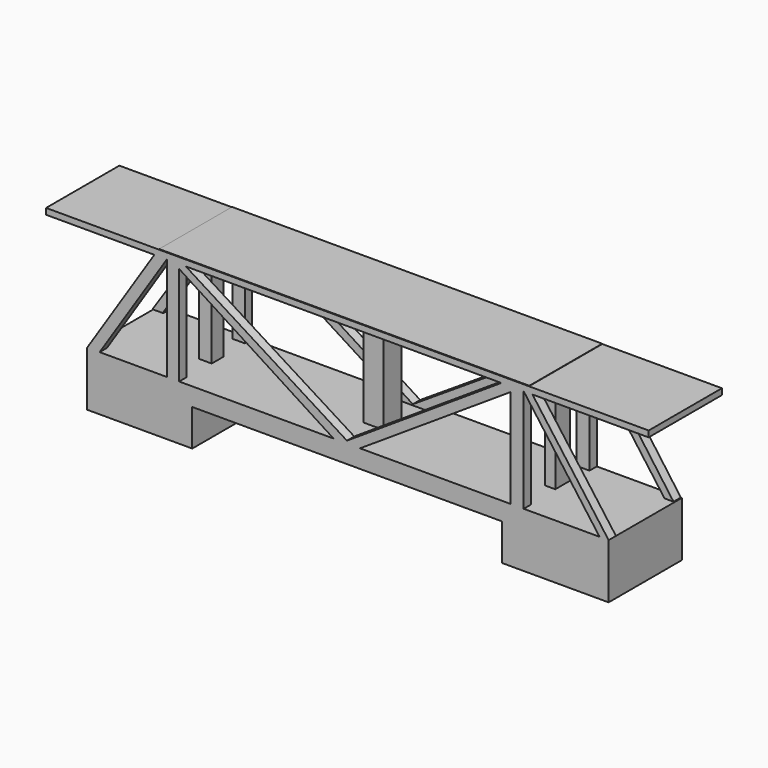
from build123d import *

# Parameters (mm, degrees)
F0_W      = 144.6334645152
F0_H      = 5.0355943386
F1_DEPTH  = 25.4
F3_DEPTH  = 2.54
F5_DEPTH  = 2.54
F6_W      = 102.6701740921
F6_H      = 25.2759195864
F7_DEPTH  = 0.254
F8_W      = 3.4340582788
F8_H      = 30.7748552877
F9_DEPTH  = 2.54
F10_W     = 3.6297179759
F10_H     = 32.1495756507
F11_DEPTH = 2.54
F12_W     = 3.6330670118
F12_H     = 30.970800959
F13_DEPTH = 2.54
F14_W     = 3.4567825496
F14_H     = 30.4196920479
F15_DEPTH = 2.54
F17_DEPTH = 2.54
F19_DEPTH = 2.54
F20_W     = 5.5748282466
F20_H     = 6.0991924256
F21_DEPTH = 33.02
F22_W     = 3.5782083869
F22_H     = 4.1668945923
F23_DEPTH = 33.02
F24_W     = 2.8318321891
F24_H     = 5.08
F25_DEPTH = 33.02
F26_W     = 167.146153748
F26_H     = 1.6835723072
F27_DEPTH = 25.4
F28_W     = 29.1326753795
F28_H     = 25.4
F29_DEPTH = 10.16
F30_W     = 29.6150818467
F30_H     = 25.4
F31_DEPTH = 10.16


with BuildPart() as f1:
    # F0 (on Front) → F1 (new body)
    with BuildSketch(Plane.XZ):
        with Locations((0.2797581255, -0.1398775494)):
            Rectangle(F0_W, F0_H)
    extrude(amount=F1_DEPTH)

    # F2 (on Front) → F3 (join)
    with BuildSketch(Plane.XZ):
        Polygon((-72.0369741321, 2.6576747186), (-72.0369741321, 0), (-69.2392249852, 0), (-69.2392249852, 2.6093864363), (-50.4433400929, 30.9355836362), (48.9940978587, 30.9355836362), (69.989785552, 2.1328825969), (69.989785552, 0), (72.3275691271, 0), (72.3275691271, 2.345408313), (50.4958182573, 32.5914844871), (-52.1743558347, 32.5914844871), align=None)
    extrude(amount=F3_DEPTH)

    # F4 (on face) → F5 (join)
    with BuildSketch(Plane.XZ.offset(25.4)):
        Polygon((-72.0369741321, 2.3779196199), (-72.0369741321, -0.1398775494), (-68.5875401776, 0), (-68.5875401776, 2.3779196199), (-49.9622374773, 31.0818161815), (49.0318536758, 31.0818161815), (70.0765177608, 2.3779196199), (70.0765177608, 0), (72.5964903831, 0), (72.5964903831, 2.3779196199), (50.2103567123, 32.7653884888), (-52.319239825, 32.7653884888), align=None)
    extrude(amount=-F5_DEPTH)

    # F6 (on face) → F7 (join)
    with BuildSketch(Plane.XY.offset(32.5914844871)):
        with Locations((-0.8392687887, -12.6379597932)):
            Rectangle(F6_W, F6_H)
    extrude(amount=F7_DEPTH)

    # F8 (on face) → F9 (join)
    with BuildSketch(Plane.XZ.offset(25.4)):
        with Locations((-48.2452083379, 16.5978105506)):
            Rectangle(F8_W, F8_H)
    extrude(amount=-F9_DEPTH)

    # F10 (on face) → F11 (join)
    with BuildSketch(Plane.XZ.offset(25.4)):
        with Locations((47.2169946879, 16.0747878253)):
            Rectangle(F10_W, F10_H)
    extrude(amount=-F11_DEPTH)

    # F12 (on face) → F13 (join)
    with BuildSketch(Plane(origin=(0, 0, 0), x_dir=(-1, 0, 0), z_dir=(0, 1, 0))):
        with Locations((-47.1775643528, 16.3971947914)):
            Rectangle(F12_W, F12_H)
    extrude(amount=-F13_DEPTH)

    # F14 (on face) → F15 (join)
    with BuildSketch(Plane(origin=(0, 0, 0), x_dir=(-1, 0, 0), z_dir=(0, 1, 0))):
        with Locations((48.3132656664, 16.6731329518)):
            Rectangle(F14_W, F14_H)
    extrude(amount=-F15_DEPTH)

    # F16 (on face) → F17 (join)
    with BuildSketch(Plane(origin=(0, 0, 0), x_dir=(-1, 0, 0), z_dir=(0, 1, 0))):
        Polygon((-45.3610308468, 31.9995991886), (-47.1585355699, 30.9355836362), (0, 0), (48.751424998, 30.9355836362), (47.5394830392, 32.8454844871), (0, 2.678947742), align=None)
    extrude(amount=-F17_DEPTH)

    # F18 (on face) → F19 (join)
    with BuildSketch(Plane.XZ.offset(25.4)):
        Polygon((-46.5281791985, 32.2389304638), (-48.4291017056, 31.0818161815), (0, 0), (47.5102737546, 31.0818161815), (45.4021357, 32.7653884888), (0, 3.0627426281), align=None)
    extrude(amount=-F19_DEPTH)

    # F20 (on face) → F21 (join)
    with BuildSketch(Plane(origin=(0, 0, 32.5914844871), x_dir=(1, 0, 0), z_dir=(0, 0, -1))):
        with Locations((-0.5173498066, 12.4324662611)):
            Rectangle(F20_W, F20_H)
    extrude(amount=F21_DEPTH)

    # F22 (on face) → F23 (join)
    with BuildSketch(Plane(origin=(0, 0, 32.5914844871), x_dir=(1, 0, 0), z_dir=(0, 0, -1))):
        with Locations((-48.0833910406, 12.3338256963)):
            Rectangle(F22_W, F22_H)
    extrude(amount=F23_DEPTH)

    # F24 (on face) → F25 (join)
    with BuildSketch(Plane(origin=(0, 0, 32.5914844871), x_dir=(1, 0, 0), z_dir=(0, 0, -1))):
        with Locations((47.2405347973, 11.4395930432)):
            Rectangle(F24_W, F24_H)
    extrude(amount=F25_DEPTH)

    # F26 (on face) → F27 (join)
    with BuildSketch(Plane.XZ.offset(25.4)):
        with Locations((0.1240931451, 31.9236023352)):
            Rectangle(F26_W, F26_H)
    extrude(amount=-F27_DEPTH)

    # F28 (on face) → F29 (join)
    with BuildSketch(Plane(origin=(0, 0, -2.6576747186), x_dir=(1, 0, 0), z_dir=(0, 0, -1))):
        with Locations((-57.4706364423, 12.7)):
            Rectangle(F28_W, F28_H)
    extrude(amount=F29_DEPTH)

    # F30 (on face) → F31 (join)
    with BuildSketch(Plane(origin=(0, 0, -2.6576747186), x_dir=(1, 0, 0), z_dir=(0, 0, -1))):
        with Locations((57.7889494598, 12.7)):
            Rectangle(F30_W, F30_H)
    extrude(amount=F31_DEPTH)


solid = f1.part
